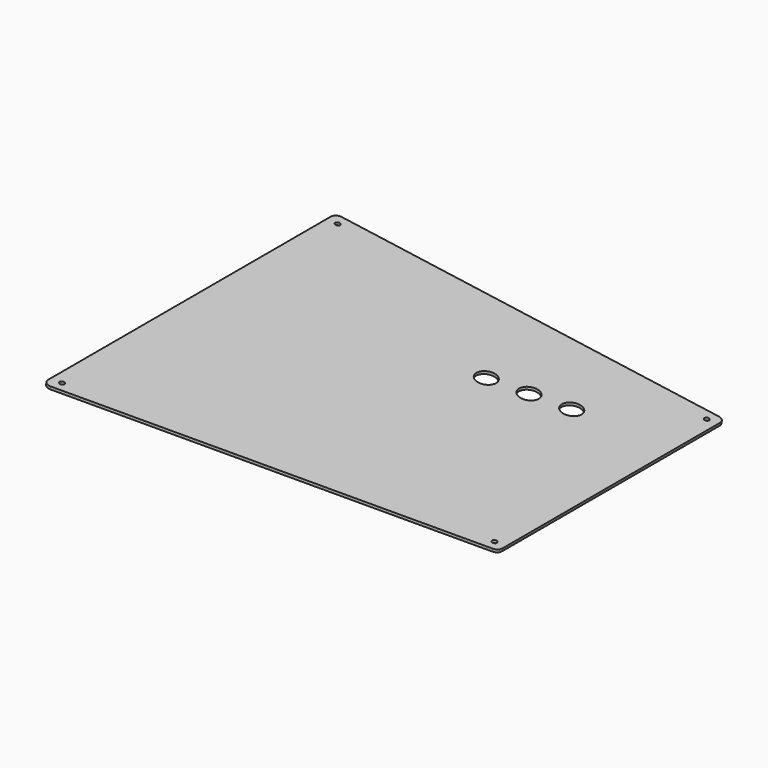
from build123d import *

# Parameters (mm, degrees)
SKETCH030_AS_DRAWN_R                      = 5
EXTRUDE025_DEPTH                          = 25.4
EXTRUDE025_ONTO_SKETCH030_PLACEMENT_ANGLE = 8
SKETCH018_AS_DRAWN_R                      = 1.2
EXTRUDE009_DEPTH                          = 7.8
EXTRUDE009_ONTO_SKETCH018_PLACEMENT_ANGLE = 8
EXTRUDE010_DEPTH                          = 1.4
EXTRUDE010_ONTO_SKETCH019_PLACEMENT_ANGLE = 8


with BuildPart() as plate_led_holes:
    # Sketch030 as drawn → Extrude025 (new, symmetric)
    with BuildSketch(Plane.XY):
        with Locations((78.81499, 41.5191)):
            Circle(SKETCH030_AS_DRAWN_R)
        with Locations((97.448702, 45.479818)):
            Circle(SKETCH030_AS_DRAWN_R)
        with Locations((116.082414, 49.440535)):
            Circle(SKETCH030_AS_DRAWN_R)
    extrude(amount=EXTRUDE025_DEPTH, both=True)


with BuildPart() as plate_led_holes_1:
    # Extrude025 onto Sketch030 placement: moved
    add(plate_led_holes.part.moved(Location((42.3672, 0, 47.625))).rotate(Axis((42.3672, 0, 47.625), (0, 1, 0)), EXTRUDE025_ONTO_SKETCH030_PLACEMENT_ANGLE))


with BuildPart() as screw_hole_cuts:
    # Sketch018 as drawn → Extrude009 (new)
    with BuildSketch(Plane.XY):
        with Locations((-31.998318, 84.649891)):
            Circle(SKETCH018_AS_DRAWN_R)
        with Locations((-31.998318, -89.695043)):
            Circle(SKETCH018_AS_DRAWN_R)
        with Locations((156.654735, -49.595599)):
            Circle(SKETCH018_AS_DRAWN_R)
        with Locations((156.654735, 84.649891)):
            Circle(SKETCH018_AS_DRAWN_R)
    extrude(amount=EXTRUDE009_DEPTH)


with BuildPart() as screw_hole_cuts_1:
    # Extrude009 onto Sketch018 placement: moved
    add(screw_hole_cuts.part.moved(Location((39.98734, 0, 30.691416))).rotate(Axis((39.98734, 0, 30.691416), (0, 1, 0)), EXTRUDE009_ONTO_SKETCH018_PLACEMENT_ANGLE))


with BuildPart() as cut017:
    # Sketch019 as drawn → Extrude010 (new)
    with BuildSketch(Plane.XY):
        with BuildLine():
            Line((-37.205318, 86.681891), (-37.205318, -92.017095))
            ThreePointArc((-37.205318, -92.017095), (-36.028411, -94.484534), (-33.370199, -95.122714))
            Line((-33.370199, -95.122714), (159.34685, -54.159441))
            ThreePointArc((159.34685, -54.159441), (161.154172, -53.051915), (161.861735, -51.053821))
            Line((161.861735, -51.053821), (161.861735, 86.681892))
            ThreePointArc((161.861735, 86.681892), (160.931799, 88.926956), (158.686734, 89.856891))
            Line((158.686734, 89.856891), (-34.030318, 89.856891))
            ThreePointArc((-34.030318, 89.856891), (-36.275382, 88.926955), (-37.205318, 86.681891))
        make_face()
    extrude(amount=EXTRUDE010_DEPTH)


with BuildPart() as cut017_1:
    # Extrude010 onto Sketch019 placement: moved
    add(cut017.part.moved(Location((39.98734, 0, 30.691416))).rotate(Axis((39.98734, 0, 30.691416), (0, 1, 0)), EXTRUDE010_ONTO_SKETCH019_PLACEMENT_ANGLE))

    # Cut002: cut Screw Hole Cuts
    add(screw_hole_cuts_1.part, mode=Mode.SUBTRACT)

    # Cut017: cut Plate LED Holes
    add(plate_led_holes_1.part, mode=Mode.SUBTRACT)


solid = cut017_1.part
